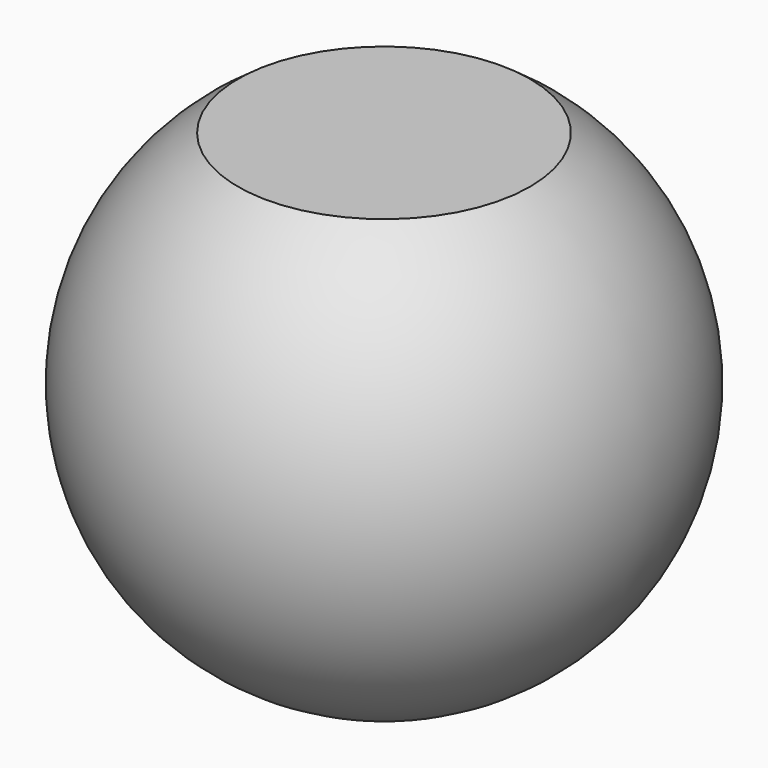
from build123d import *

# Parameters (mm, degrees)
F2_W = 25.016448
F2_H = 11.842102


with BuildPart() as f1:
    # F0 (on Front) → F1 (revolve)
    with BuildSketch(Plane.XZ):
        with BuildLine():
            Line((0, 35.16334), (0, -35.16334))
            ThreePointArc((0, -35.16334), (35.16334, 0), (0, 35.16334))
        make_face()
    revolve(axis=Axis((0, 0, 1.332236), (0, 0, -1)))

    # F2 (on Front) → F3 (revolve, cut)
    with BuildSketch(Plane.XZ):
        with Locations((12.508224, 35.230264)):
            Rectangle(F2_W, F2_H)
    revolve(axis=Axis((0, 0, 5.624998), (0, 0, -1)), mode=Mode.SUBTRACT)


solid = f1.part
